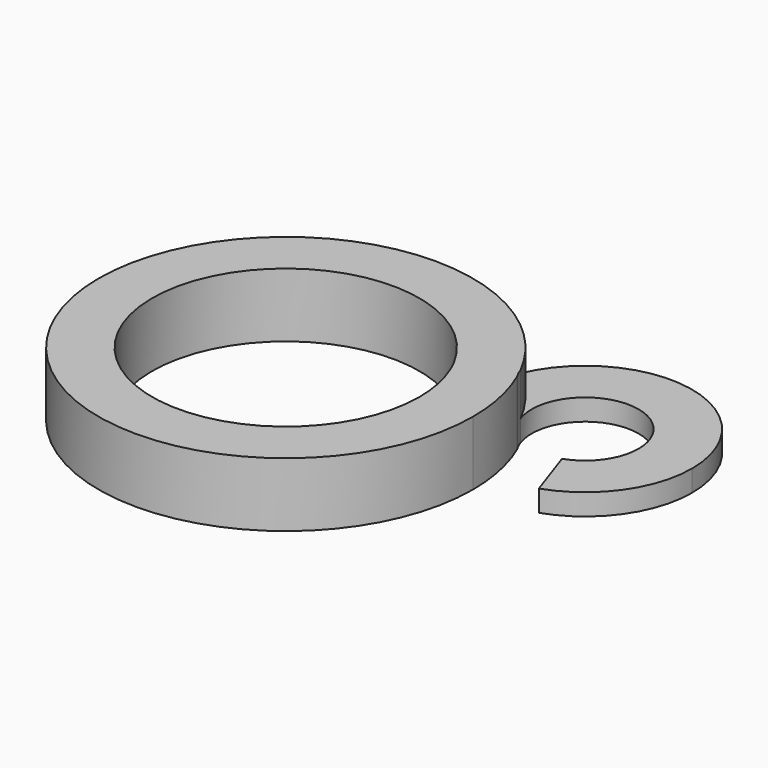
from build123d import *

# Parameters (mm, degrees)
F1_DEPTH = 2.4
F2_DEPTH = 1.6


with BuildPart() as f1:
    # F0 (on Top) → F1 (new body)
    with BuildSketch(Plane.XY):
        with BuildLine():
            ThreePointArc((6.2364408078, 3.1791203265), (5.4557408837, 4.3857600721), (4.4450679147, 5.4075291247))
            ThreePointArc((4.4450679147, 5.4075291247), (4.1248628557, 3.8877917046), (4.4076455939, 2.3606482835))
            ThreePointArc((4.4076455939, 2.3606482835), (4.5207987432, 2.1359725475), (4.6225083364, 1.9058899968))
            Line((4.6225083364, 1.9058899968), (6.3735347613, 2.8722783552))
            ThreePointArc((6.3735347613, 2.8722783552), (6.2985312404, 3.0228146209), (6.2364408078, 3.1791203265))
        make_face()
        with BuildLine():
            ThreePointArc((12.1245611862, 3.8386667137), (8.9251943462, 7.7577210056), (4.4450679147, 5.4075291247))
            ThreePointArc((4.4450679147, 5.4075291247), (5.4557408837, 4.3857600721), (6.2364408078, 3.1791203265))
            ThreePointArc((6.2364408078, 3.1791203265), (7.7900770735, 5.8104984454), (10.1245611862, 3.8386667137))
            ThreePointArc((10.1245611862, 3.8386667137), (9.7517195067, 2.6757583768), (8.7722053863, 1.9464307373))
            Line((8.7722053863, 1.9464307373), (9.4198495864, 0.054194761))
            ThreePointArc((9.4198495864, 0.054194761), (11.3788778273, 1.51285004), (12.1245611862, 3.8386667137))
        make_face()
        with BuildLine():
            ThreePointArc((4.4450679147, 5.4075291247), (-6.3291182404, -2.9903615666), (7, 0))
            ThreePointArc((7, 0), (5.6226632008, 0.717688266), (4.6225083364, 1.9058899968))
            ThreePointArc((4.6225083364, 1.9058899968), (4.9047192418, 0.9714572348), (5, 0))
            ThreePointArc((5, 0), (-4.8496509137, -1.2169166016), (4.4076455939, 2.3606482835))
            ThreePointArc((4.4076455939, 2.3606482835), (4.1248628557, 3.8877917046), (4.4450679147, 5.4075291247))
        make_face()
        with BuildLine():
            ThreePointArc((4.6225083364, 1.9058899968), (5.6226632008, 0.717688266), (7, 0))
            ThreePointArc((7, 0), (6.8524662966, 1.4295823353), (6.416084099, 2.7989042203))
            ThreePointArc((6.416084099, 2.7989042203), (6.3944204178, 2.8353657012), (6.3735347613, 2.8722783552))
            Line((6.3735347613, 2.8722783552), (4.6225083364, 1.9058899968))
        make_face()
    extrude(amount=-F1_DEPTH)

    # F0 (on Top) → F2 (cut)
    with BuildSketch(Plane.XY):
        with BuildLine():
            ThreePointArc((12.1245611862, 3.8386667137), (8.9251943462, 7.7577210056), (4.4450679147, 5.4075291247))
            ThreePointArc((4.4450679147, 5.4075291247), (5.4557408837, 4.3857600721), (6.2364408078, 3.1791203265))
            ThreePointArc((6.2364408078, 3.1791203265), (7.7900770735, 5.8104984454), (10.1245611862, 3.8386667137))
            ThreePointArc((10.1245611862, 3.8386667137), (9.7517195067, 2.6757583768), (8.7722053863, 1.9464307373))
            Line((8.7722053863, 1.9464307373), (9.4198495864, 0.054194761))
            ThreePointArc((9.4198495864, 0.054194761), (11.3788778273, 1.51285004), (12.1245611862, 3.8386667137))
        make_face()
    extrude(amount=-F2_DEPTH, mode=Mode.SUBTRACT)


solid = f1.part
